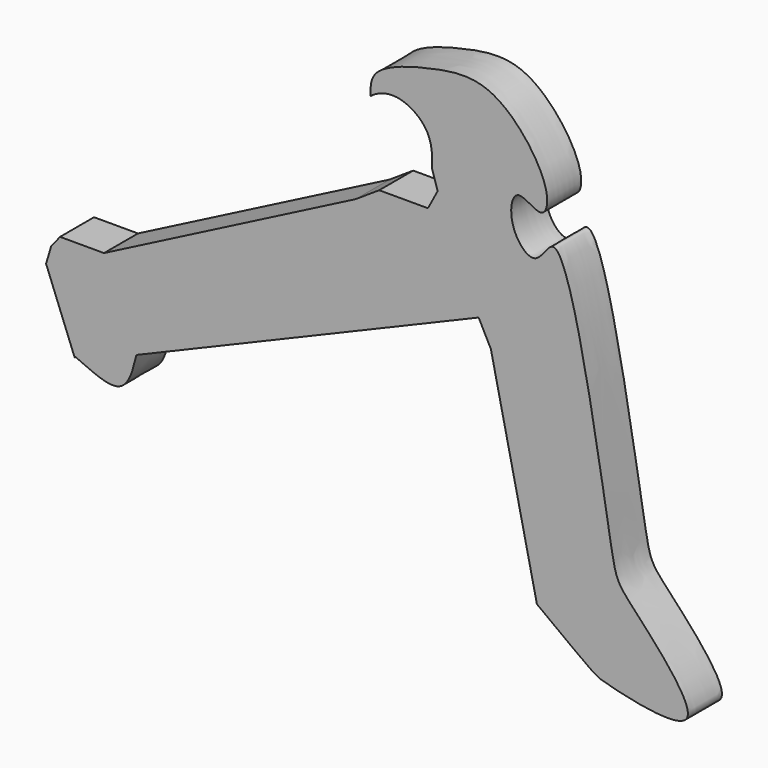
from build123d import *

# Parameters (mm, degrees)
F1_DEPTH = 2.54
F2_DEPTH = 2.54


with BuildPart() as f1:
    # F0 (on Front) → F1 (new body)
    with BuildSketch(Plane.XZ):
        with BuildLine():
            Line((36.6777554154, 17.1212945133), (36.37663275, 16.1090735346))
            Line((36.37663275, 16.1090735346), (38.086719811, 11.7239495739))
            add(Edge.make_bspline(
                [(41.7712330818, 13.0690885708), (41.5354481341, 12.0829637238), (41.0591585147, 10.0909746992), (38.0003773742, 11.9509936681), (38.076631108, 11.7504785961), (38.086719811, 11.7239495739)],
                knots=[0, 0, 0, 0, 0.4596544934, 0.9285099232, 1, 1, 1, 1], degree=3))
            Line((41.7712330818, 13.0690885708), (62.2125372299, 21.6834573789))
            Line((62.2125372299, 21.6834573789), (62.9425570369, 20.2626604587))
            Line((62.9425570369, 20.2626604587), (65.6913146377, 7.7470159158))
            add(Edge.make_bspline(
                [(55.7603277266, 31.2229096889), (55.7490927547, 31.6797532226), (55.7193050453, 32.8909998981), (59.6305831012, 34.020517402), (63.380204868, 34.4669252281), (66.6913971834, 29.9997123966), (66.084880105, 27.8734513112), (64.3070310154, 29.5786438458), (63.8899437937, 27.0702492282), (65.691132429, 25.0972892166), (67.3936197636, 29.7525822801), (70.2251805083, 11.0563526025), (70.6022084226, 10.1933180604), (77.5584950774, 3.085283716), (69.7235334871, 4.9169576176), (69.096476367, 5.183890585), (67.0481855316, 6.7256752467), (65.6913146377, 7.7470159158)],
                knots=[0, 0, 0, 0, 0.0433125882, 0.1148363163, 0.1875609272, 0.2718057797, 0.3137534224, 0.3580532259, 0.4072765647, 0.4586165285, 0.5036399789, 0.6490576837, 0.7127119379, 0.8041046744, 0.8847800957, 0.923673664, 1, 1, 1, 1], degree=3))
            add(Edge.make_bspline(
                [(59.4413429499, 28.5588148981), (59.4479677392, 29.254540833), (59.4617801936, 30.7051051077), (57.1513972889, 32.1243589613), (55.8200570223, 31.3278217214), (55.7603277266, 31.2229096889)],
                knots=[0, 0, 0, 0, 0.32965645, 0.6873221843, 0.9531094609, 0.9531094609, 0.9531094609, 0.9531094609], degree=3))
            Line((59.4413429499, 28.5588148981), (59.7616136074, 27.5339428335))
            Line((59.7616136074, 27.5339428335), (59.1851249337, 26.4450181276))
            Line((59.1851249337, 26.4450181276), (56.2706440687, 26.4450181276))
            Line((56.2706440687, 26.4450181276), (54.8614449799, 25.5162268877))
            Line((54.8614449799, 25.5162268877), (39.8344174027, 17.7951883525))
            Line((39.8344174027, 17.7951883525), (37.2097790241, 17.7951883525))
            Line((37.2097790241, 17.7951883525), (36.6777554154, 17.1212945133))
        make_face()
    extrude(amount=F1_DEPTH)

    # F2 (add): a face of the model
    f2_faces = [f1.faces().sort_by_distance(p)[0] for p in [
        (47.5698605155, -2.54, 21.2237789281),
    ]]
    extrude(f2_faces, amount=-F2_DEPTH)


solid = f1.part
